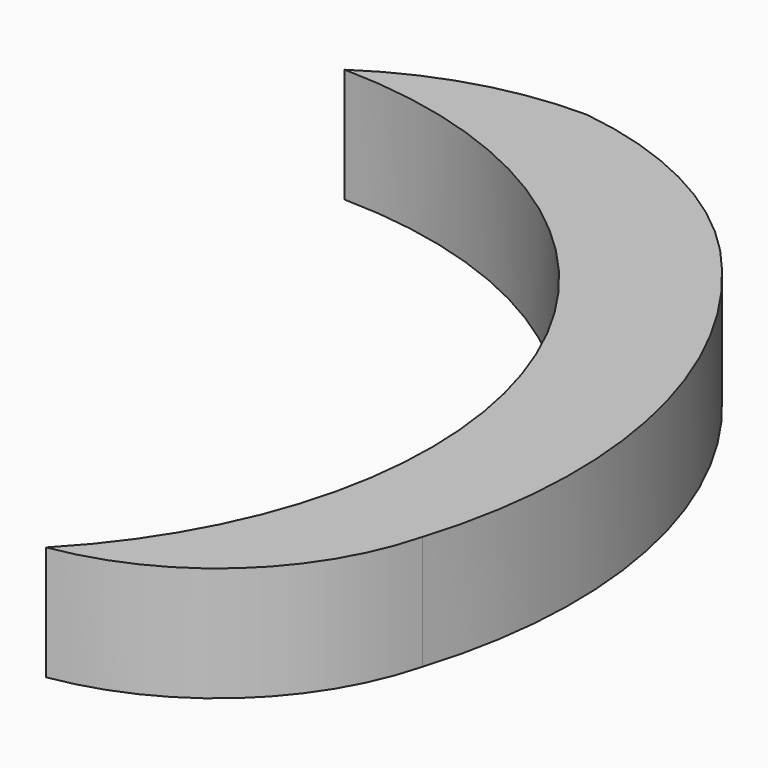
from build123d import *

# Parameters (mm, degrees)
F1_DEPTH = 25.4


with BuildPart() as f1:
    # F0 (on Top) → F1 (new body)
    with BuildSketch(Plane.XY):
        with BuildLine():
            ThreePointArc((-105.059527, 114.809577), (-12.430289, 52.195551), (-33.424245, -57.622234))
            ThreePointArc((-33.424245, -57.622234), (-2.611057, -42.983897), (15.07293, -13.811819))
            ThreePointArc((15.07293, -13.811819), (18.193999, 44.569559), (-7.210166, 97.226513))
            ThreePointArc((-7.210166, 97.226513), (-31.495036, 117.82512), (-61.715451, 127.864246))
            ThreePointArc((-61.715451, 127.864246), (-84.379276, 124.629841), (-105.059527, 114.809577))
        make_face()
    extrude(amount=F1_DEPTH)


solid = f1.part
